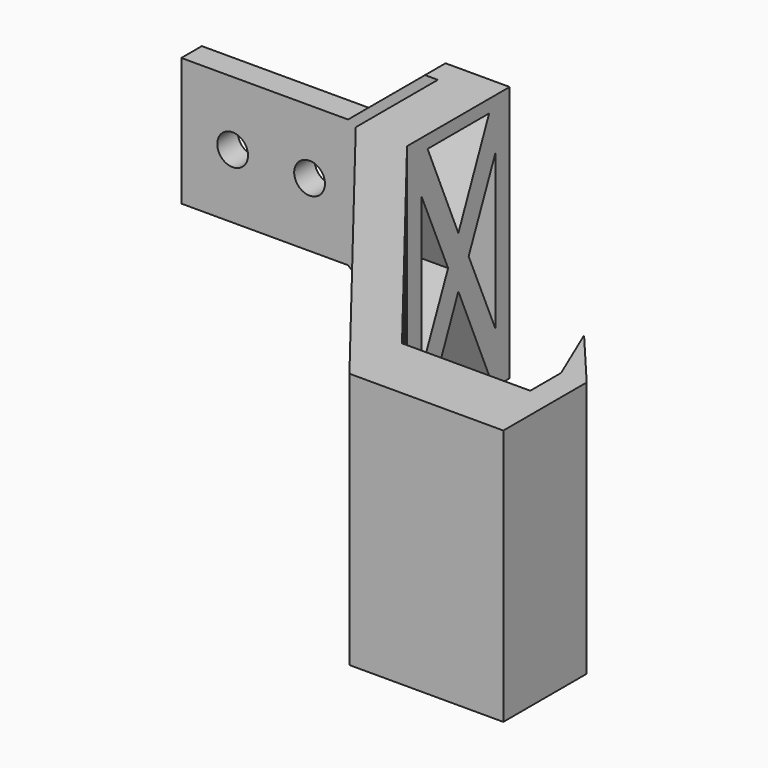
from build123d import *

# Parameters (mm, degrees)
PAD_DEPTH       = 50
POCKET_DEPTH    = 10
POCKET001_DEPTH = 5
POCKET002_DEPTH = 5
POCKET003_DEPTH = 86.7059680197
SKETCH001_R     = 3
HOLE_DEPTH      = 92.501


with BuildPart() as part:
    # Sketch → Pad (new body)
    with BuildSketch(Plane.XY):
        Polygon((5, 92.5), (65, 92.5), (65, 67.5), (105, 16.2652461702), (130, 16.2652461702), (130, 23.7652461702), (125, 35.6301629012), (135, 23.7652461702), (135, 3.4565577128), (105, 3.4565577128), (55, 67.5), (55, 87.5), (5, 87.5), align=None)
    extrude(amount=PAD_DEPTH)

    # Sketch005 → Pocket (cut)
    with BuildSketch(Plane.YZ.offset(65)):
        Polygon((72.5, 47.5), (87.5, 47.5), (80, 30), align=None)
        Polygon((80, 20), (72.5, 2.5), (87.5, 2.5), align=None)
        Polygon((71, 40), (77.5, 25), (71, 10), align=None)
        Polygon((82.5, 25), (89, 40), (89, 10), align=None)
    extrude(amount=-POCKET_DEPTH, mode=Mode.SUBTRACT)

    # Sketch002 → Pocket001 (cut)
    with BuildSketch(Plane(origin=(0, 92.5, 0), x_dir=(-1, 0, 0), z_dir=(0, 1, 0))):
        Polygon((-52.5, 50), (-37.5, 37.5), (-5, 37.5), (-5, 50), align=None)
    extrude(amount=-POCKET001_DEPTH, mode=Mode.SUBTRACT)

    # Sketch003 → Pocket002 (cut)
    with BuildSketch(Plane(origin=(0, 92.5, 0), x_dir=(-1, 0, 0), z_dir=(0, 1, 0))):
        Polygon((-52.5, 0), (-37.5, 12.500000002), (-5, 12.5), (-5, 0), align=None)
    extrude(amount=-POCKET002_DEPTH, mode=Mode.SUBTRACT)

    # Sketch008 (on Face23 of Pocket002) → Pocket003 (cut, through all)
    with BuildSketch(Plane(origin=(73.1263515599, 57.0912094574, 0), x_dir=(-0.6153846154, 0.788226982, 0), z_dir=(0.788226982, 0.6153846154, 0))):
        Polygon((7.5, 5), (7.5, 45), (-17.5, 25), align=None)
        Polygon((-47.5, 5), (-47.5, 45), (-22.5, 25), align=None)
        Polygon((-0.005547, 45.032113), (-40.0240908379, 44.9926101173), (-20, 30), align=None)
        Polygon((-20, 20), (0, 4.9752679886), (-40.0185556925, 5), align=None)
    extrude(amount=-POCKET003_DEPTH, mode=Mode.SUBTRACT)

    # Sketch001 → Hole (cut, through all)
    with BuildSketch(Plane.XZ):
        with Locations((15, 25)):
            Circle(SKETCH001_R)
        with Locations((30, 25)):
            Circle(SKETCH001_R)
    extrude(amount=-HOLE_DEPTH, mode=Mode.SUBTRACT)


solid = part.part
